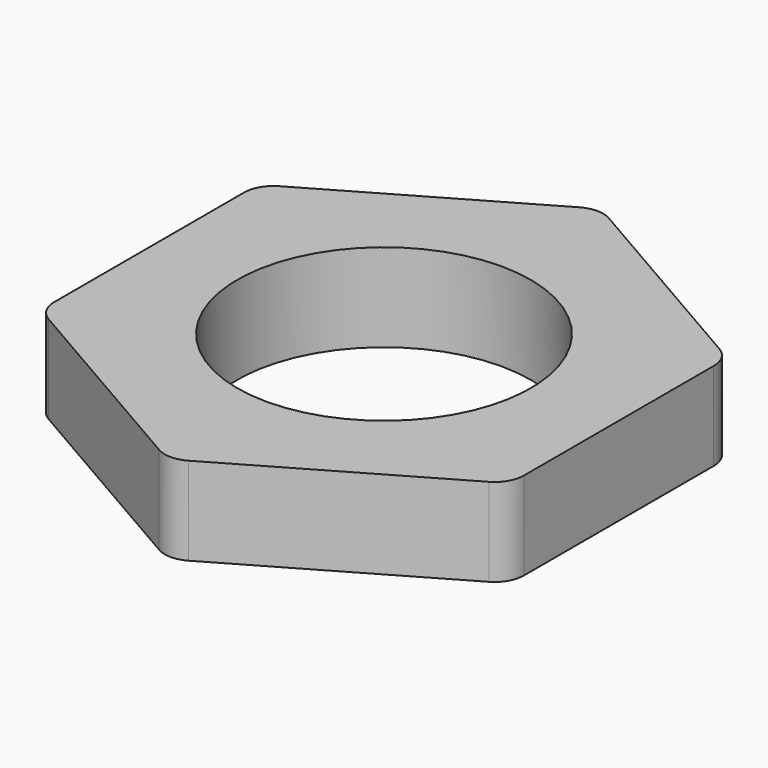
from build123d import *

# Parameters (mm, degrees)
CIRCLE001_R            = 2.5
EXTRUDE009_DEPTH       = 1.5
EXTRUDE010_DEPTH       = 1.5
CUT001_PLACEMENT_ANGLE = 90


with BuildPart() as extrude009:
    # Circle001 → Extrude009 (new body)
    with BuildSketch(Plane(origin=(10, 0, 0), x_dir=(1, 0, 0), z_dir=(0, 0, -1))):
        Circle(CIRCLE001_R)
    extrude(amount=-EXTRUDE009_DEPTH)


with BuildPart() as ecrou:
    # Polygon001 → Extrude010 (new body)
    with BuildSketch(Plane(origin=(10, 0, 0), x_dir=(1, 0, 0), z_dir=(0, 0, 1))):
        with BuildLine():
            Line((2.453739, 3.75), (4.474465, 0.25))
            ThreePointArc((4.474465, 0.25), (4.541452, 0), (4.474465, -0.25))
            Line((4.474465, -0.25), (2.453739, -3.75))
            ThreePointArc((2.453739, -3.75), (2.270726, -3.933013), (2.020726, -4))
            Line((2.020726, -4), (-2.020726, -4))
            ThreePointArc((-2.020726, -4), (-2.270726, -3.933013), (-2.453739, -3.75))
            Line((-2.453739, -3.75), (-4.474465, -0.25))
            ThreePointArc((-4.474465, -0.25), (-4.541452, 0), (-4.474465, 0.25))
            Line((-4.474465, 0.25), (-2.453739, 3.75))
            ThreePointArc((-2.453739, 3.75), (-2.270726, 3.933013), (-2.020726, 4))
            Line((-2.020726, 4), (2.020726, 4))
            ThreePointArc((2.020726, 4), (2.270726, 3.933013), (2.453739, 3.75))
        make_face()
    extrude(amount=EXTRUDE010_DEPTH)

    # Cut001: cut Extrude009
    add(extrude009.part, mode=Mode.SUBTRACT)


with BuildPart() as ecrou_1:
    # Cut001 placement: moved
    add(ecrou.part.moved(Location((25, 40, 9))).rotate(Axis((25, 40, 9), (0, 0, 1)), CUT001_PLACEMENT_ANGLE))


solid = ecrou_1.part
